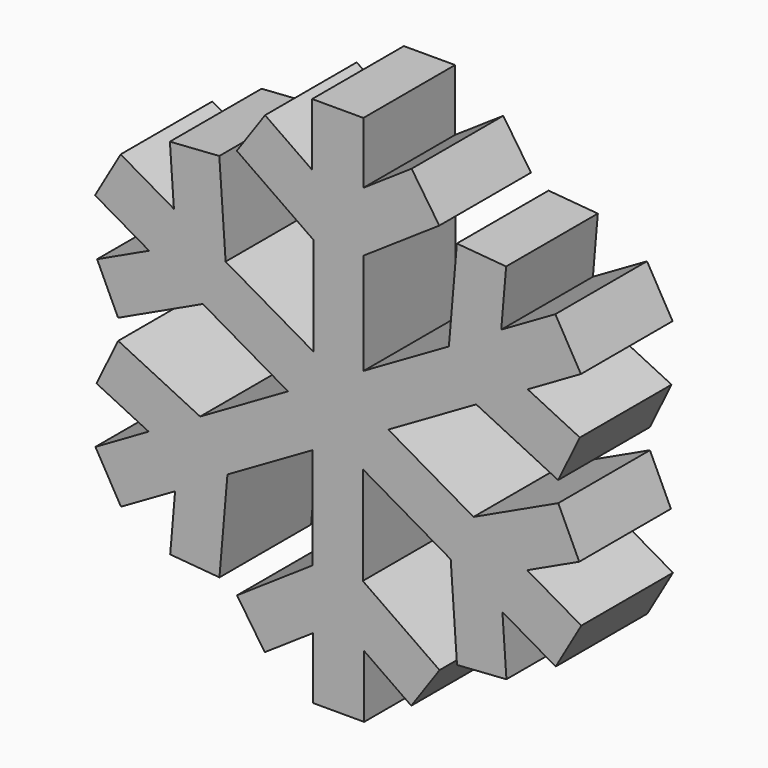
from build123d import *

# Parameters (mm, degrees)
F1_DEPTH = 15


with BuildPart() as f1:
    # F0 (on Front) → F1 (new body)
    with BuildSketch(Plane.XZ):
        Polygon((23.861149, 25.248436), (35.014816, 31.688008), (35.014816, 18.401567), (25.119459, 11.732958), (28.74309, 6.355957), (35.049491, 10.605923), (35.049491, 2.554659), (41.755129, 2.554659), (41.755129, 10.729081), (47.921799, 6.426754), (51.6238, 11.732958), (41.577444, 18.742041), (41.577444, 31.621186), (53.08384, 24.977965), (53.911346, 13.074031), (60.379781, 13.523686), (59.852403, 21.110173), (66.825002, 17.084541), (70.177821, 22.891793), (63.098564, 26.979004), (69.907824, 30.168334), (67.163517, 36.027463), (56.070295, 30.831605), (44.916629, 37.271177), (56.423024, 43.914398), (67.145887, 38.679072), (69.990691, 44.505729), (63.156912, 47.84225), (70.129511, 51.867882), (66.776692, 57.675134), (59.697435, 53.587923), (60.340024, 61.07958), (53.893716, 61.632505), (52.846851, 49.427564), (41.693184, 42.987992), (41.693184, 56.274433), (51.588541, 62.943042), (47.96491, 68.320043), (41.658509, 64.070077), (41.658509, 72.121341), (34.952871, 72.121341), (34.952871, 63.946919), (28.786201, 68.249246), (25.0842, 62.943042), (35.130556, 55.933959), (35.130556, 43.054814), (23.62416, 49.698035), (22.796654, 61.601969), (16.328219, 61.152314), (16.855597, 53.565827), (9.882998, 57.591459), (6.530179, 51.784207), (13.609436, 47.696996), (6.800176, 44.507666), (9.544483, 38.648537), (20.637705, 43.844395), (31.791371, 37.404823), (20.284976, 30.761602), (9.562113, 35.996928), (6.717309, 30.170271), (13.551088, 26.83375), (6.578489, 22.808118), (9.931308, 17.000866), (17.010565, 21.088077), (16.367976, 13.59642), (22.814284, 13.043495), align=None)
    extrude(amount=F1_DEPTH)


solid = f1.part
